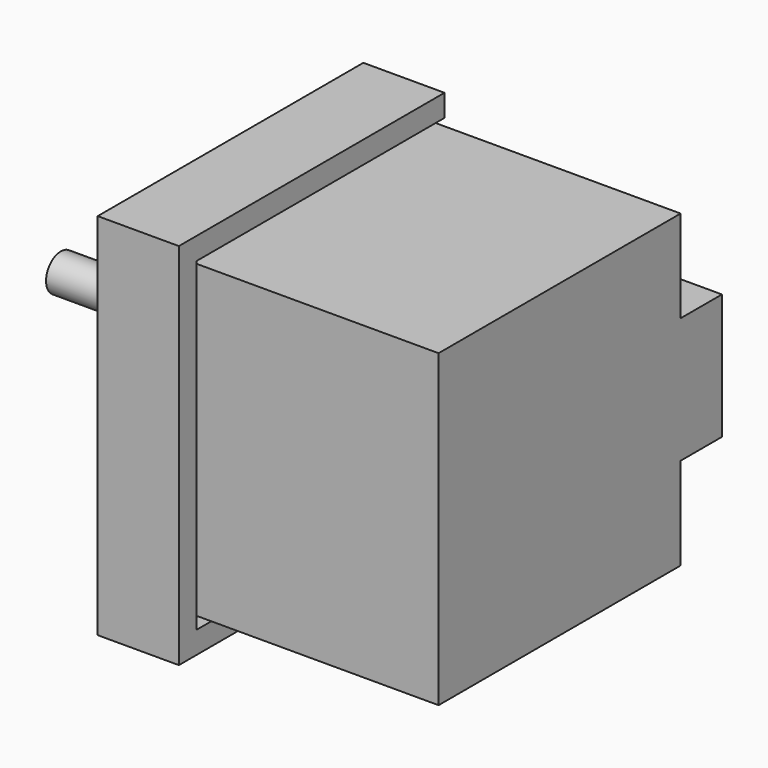
from build123d import *

# Parameters (mm, degrees)
BOX009_W                  = 41
BOX009_H                  = 42
BOX009_DEPTH              = 40
BOX008_W                  = 7
BOX008_H                  = 17
BOX008_DEPTH              = 10
CYLINDER004_R             = 2.5
CYLINDER004_DEPTH         = 25
CYLINDER005_R             = 2.5
CYLINDER005_DEPTH         = 4
BOX012_W                  = 45
BOX012_H                  = 3
BOX012_DEPTH              = 8
BOX011_W                  = 3
BOX011_H                  = 50
BOX011_DEPTH              = 8
BOX010_W                  = 45
BOX010_H                  = 50
BOX010_DEPTH              = 3
FUSION005_ROLL_ANGLE      = -90
FUSION005_PLACEMENT_ANGLE = 90


with BuildPart() as base_motor001:
    # Box009 → Box009 (new body)
    with BuildSketch(Plane(origin=(4, 4, 0), x_dir=(1, 0, 0), z_dir=(0, 0, 1))):
        with Locations((20.5, 21)):
            Rectangle(BOX009_W, BOX009_H)
    extrude(amount=BOX009_DEPTH)


with BuildPart() as obj1:
    # Box008 → Box008 (new body)
    with BuildSketch(Plane(origin=(45, 16.5, 0), x_dir=(1, 0, 0), z_dir=(0, 0, 1))):
        with Locations((3.5, 8.5)):
            Rectangle(BOX008_W, BOX008_H)
    extrude(amount=BOX008_DEPTH)


with BuildPart() as motor001:
    # Cylinder004 → Cylinder004 (new body)
    with BuildSketch(Plane(origin=(25, 25, 43), x_dir=(1, 0, 0), z_dir=(0, 0, 1))):
        Circle(CYLINDER004_R)
    extrude(amount=CYLINDER004_DEPTH)

    # Fusion007: union base motor001, obj1
    add(base_motor001.part)
    add(obj1.part)


with BuildPart() as obj2:
    # Cylinder005 → Cylinder005 (new body)
    with BuildSketch(Plane(origin=(10, 10, 43), x_dir=(1, 0, 0), z_dir=(0, 0, 1))):
        Circle(CYLINDER005_R)
    extrude(amount=CYLINDER005_DEPTH)


with BuildPart() as obj3:
    # Link009 base: copy of obj2
    add(obj2.part)


with BuildPart() as obj3_1:
    # Link009 placement: moved
    add(obj3.part.moved(Location((30, 30, 0))))


with BuildPart() as obj4:
    # Link010 base: copy of obj2
    add(obj2.part)


with BuildPart() as obj4_1:
    # Link010 placement: moved
    add(obj4.part.moved(Location((30, 0, 0))))


with BuildPart() as obj5:
    # Link007 base: copy of obj2
    add(obj2.part)


with BuildPart() as obj5_1:
    # Link007 placement: moved
    add(obj5.part.moved(Location((0, 30, 0))))


with BuildPart() as obj6:
    # Box012 → Box012 (new body)
    with BuildSketch(Plane.XY.offset(32)):
        with Locations((22.5, 1.5)):
            Rectangle(BOX012_W, BOX012_H)
    extrude(amount=BOX012_DEPTH)


with BuildPart() as lateral_der001:
    # Link008 base: copy of obj6
    add(obj6.part)


with BuildPart() as lateral_der001_1:
    # Link008 placement: moved
    add(lateral_der001.part.moved(Location((0, 47, 0))))


with BuildPart() as obj7:
    # Box011 → Box011 (new body)
    with BuildSketch(Plane.XY.offset(32)):
        with Locations((1.5, 25)):
            Rectangle(BOX011_W, BOX011_H)
    extrude(amount=BOX011_DEPTH)


with BuildPart() as obj8:
    # Box010 → Box010 (new body)
    with BuildSketch(Plane.XY.offset(40)):
        with Locations((22.5, 25)):
            Rectangle(BOX010_W, BOX010_H)
    extrude(amount=BOX010_DEPTH)

    # Fusion006: union obj6, lateral der001, obj7
    add(obj6.part)
    add(lateral_der001_1.part)
    add(obj7.part)

    # Fusion005: union motor001, obj3, obj4, obj5, obj2
    add(motor001.part)
    add(obj3_1.part)
    add(obj4_1.part)
    add(obj5_1.part)
    add(obj2.part)


with BuildPart() as obj8_1:
    # Fusion005 roll: moved
    add(obj8.part.rotate(Axis((0, 0, 0), (1, 0, 0)), FUSION005_ROLL_ANGLE))


with BuildPart() as obj8_2:
    # Fusion005 placement: moved
    add(obj8_1.part.moved(Location((159, 1, 55))).rotate(Axis((159, 1, 55), (0, 0, 1)), FUSION005_PLACEMENT_ANGLE))


solid = obj8_2.part
